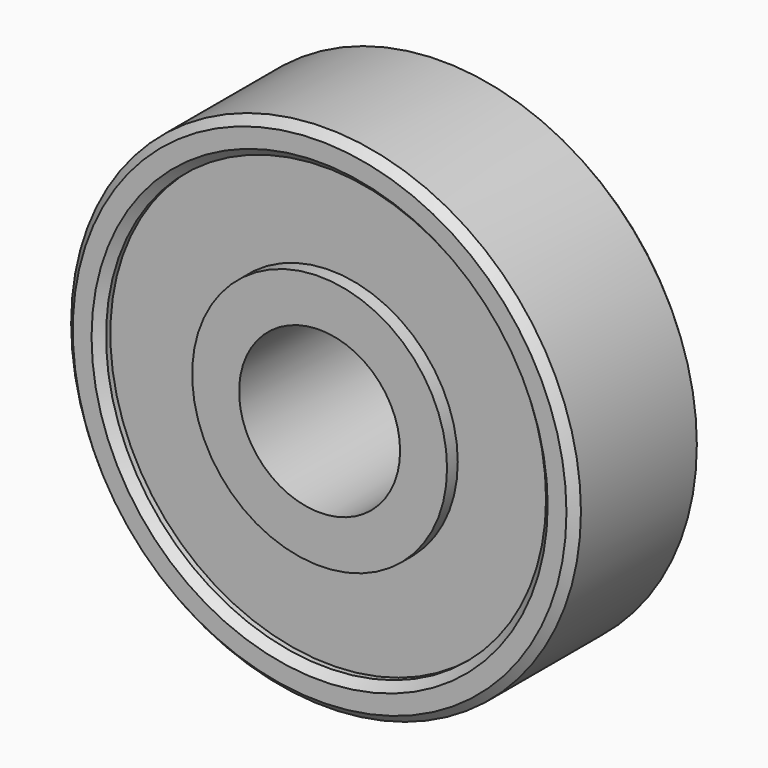
from build123d import *

# Parameters (mm, degrees)
F0_R     = 9.5
F0_R_2   = 8.2
F1_DEPTH = 3
F0_R_3   = 4.75
F2_DEPTH = 2.5
F3_SIZE  = 0.3
F0_R_4   = 3
F4_DEPTH = 3


with BuildPart() as f1:
    # F0 (on Front) → F1 (new body, symmetric)
    with BuildSketch(Plane.XZ):
        Circle(F0_R)
        Circle(F0_R_2, mode=Mode.SUBTRACT)
    extrude(amount=F1_DEPTH, both=True)

    # F0 (on Front) → F2 (join, symmetric)
    with BuildSketch(Plane.XZ):
        Circle(F0_R_2)
        Circle(F0_R_3, mode=Mode.SUBTRACT)
    extrude(amount=F2_DEPTH, both=True)

    # F3
    f3_edges = [f1.edges().sort_by_distance(p)[0] for p in [
        (-9.5, -3, 0),
        (-8.2, -3, 0),
        (-9.5, 3, 0),
        (-8.2, 3, 0),
    ]]
    chamfer(f3_edges, length=F3_SIZE)


with BuildPart() as f4:
    # F0 (on Front) → F4 (new body, symmetric)
    with BuildSketch(Plane.XZ):
        Circle(F0_R_3)
        Circle(F0_R_4, mode=Mode.SUBTRACT)
    extrude(amount=F4_DEPTH, both=True)


solid = Compound([f1.part, f4.part])
